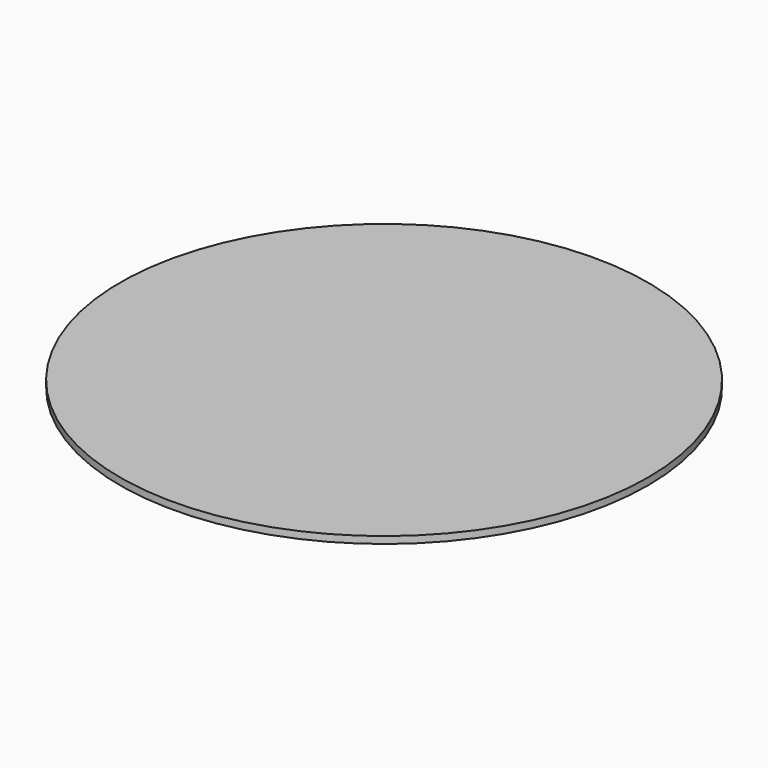
from build123d import *

# Parameters (mm, degrees)
SKETCH_R  = 151.5
PAD_DEPTH = 4


with BuildPart() as part:
    # Sketch (on XY_Plane of Origin) → Pad (new body)
    with BuildSketch(Plane.XY):
        Circle(SKETCH_R)
    extrude(amount=PAD_DEPTH)


solid = part.part
